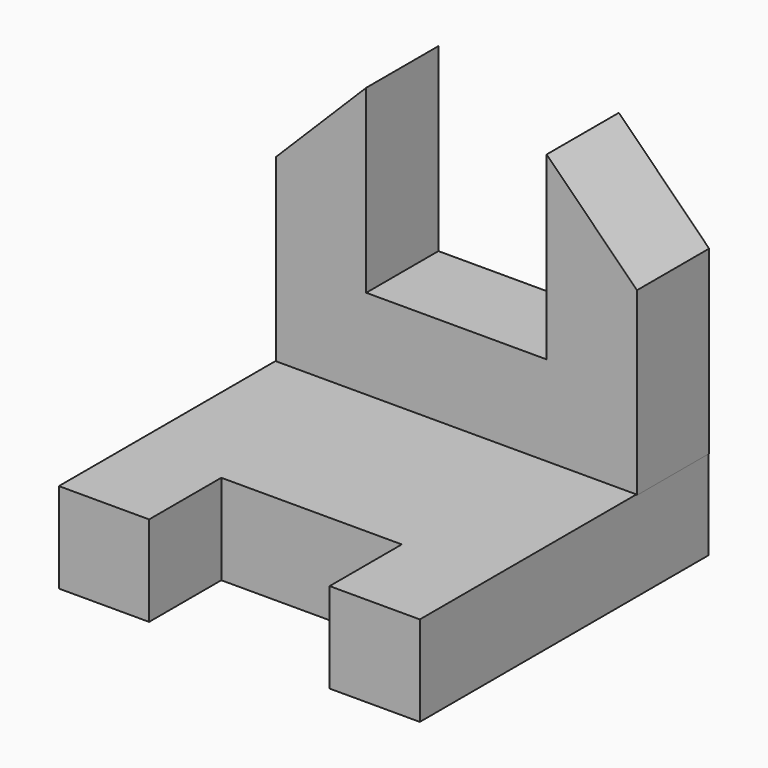
from build123d import *

# Parameters (mm, degrees)
F1_DEPTH = 25.4
F3_DEPTH = 50.8
F4_DEPTH = 25.4


with BuildPart() as f1:
    # F0 (on Top) → F1 (new body)
    with BuildSketch(Plane.XY):
        Polygon((-50.8, 50.8), (-50.8, 0), (-50.8, -50.8), (-25.4, -50.8), (-25.4, -25.4), (25.4, -25.4), (25.4, -50.8), (50.8, -50.8), (50.8, 50.8), align=None)
    extrude(amount=F1_DEPTH)


with BuildPart() as f3:
    # F2 (on Front) → F3 (new body)
    with BuildSketch(Plane.XZ):
        Polygon((-50.649669, 77.05419), (-50.649669, 26.25419), (50.950331, 26.25419), (50.950331, 77.05419), (25.550331, 102.45419), (25.550331, 77.05419), (25.550331, 51.65419), (-25.249669, 51.65419), (-25.249669, 77.05419), (-25.249669, 102.45419), align=None)
    extrude(amount=-F3_DEPTH)

    # F3_face (on face) → F4 (cut)
    with BuildSketch(Plane(origin=(0.150331, 0, 52.863714), x_dir=(1, 0, 0), z_dir=(0, -1, 0))):
        Polygon((-50.8, 24.190476), (-50.8, -26.609524), (50.8, -26.609524), (50.8, 24.190476), (25.4, 49.590476), (25.4, -1.209524), (-25.4, -1.209524), (-25.4, 49.590476), align=None)
    extrude(amount=-F4_DEPTH, mode=Mode.SUBTRACT)


with BuildPart() as f3_1:
    # F5: moved
    add(f3.part.moved(Location((0, 0, -1.016))))


solid = Compound([f1.part, f3_1.part])
